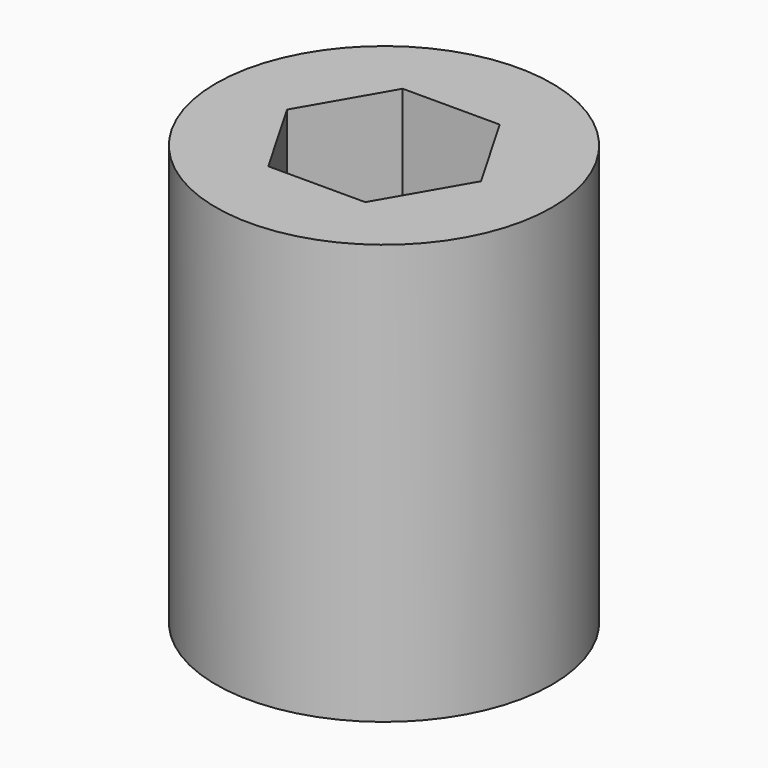
from build123d import *

# Parameters (mm, degrees)
F0_R     = 10
F1_DEPTH = 25
F3_DEPTH = 12
F5_DEPTH = 25


with BuildPart() as f1:
    # F0 (on Top) → F1 (new body)
    with BuildSketch(Plane.XY):
        Circle(F0_R)
    extrude(amount=F1_DEPTH)

    # F2 (on face) → F3 (cut)
    with BuildSketch(Plane.XY.offset(25)):
        Polygon((2.886751, 5), (-2.886751, 5), (-5.773503, 0), (-2.886751, -5), (2.886751, -5), (5.773503, 0), align=None)
    extrude(amount=-F3_DEPTH, mode=Mode.SUBTRACT)

    # F4 (on face) → F5 (cut)
    with BuildSketch(Plane(origin=(0, 0, 0), x_dir=(1, 0, 0), z_dir=(0, 0, -1))):
        Polygon((1.057785, -4.400124), (4.400124, 1.057785), (-1.057785, 4.400124), (-4.400124, -1.057785), align=None)
    extrude(amount=-F5_DEPTH, mode=Mode.SUBTRACT)


solid = f1.part
